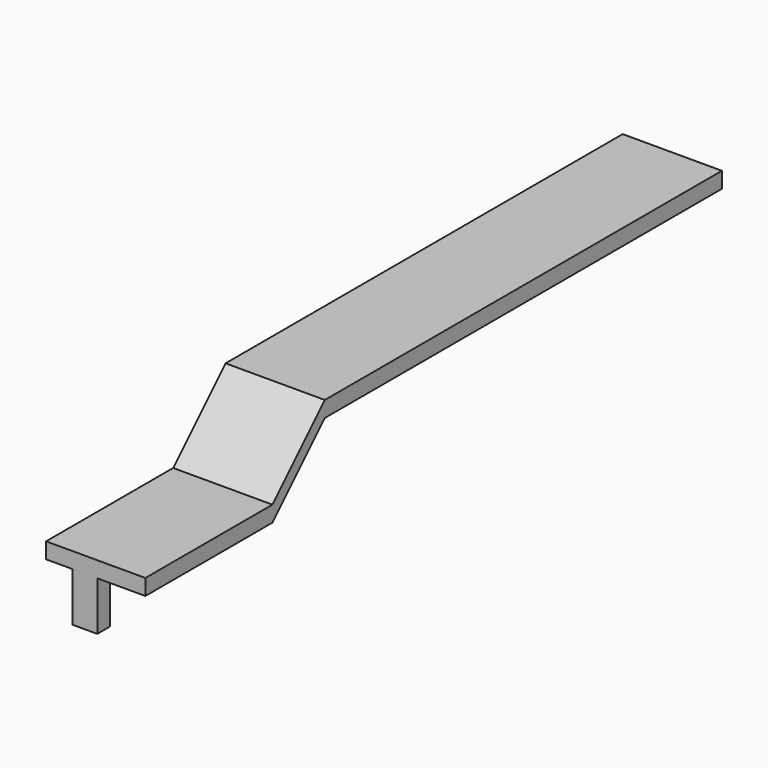
from build123d import *

# Parameters (mm, degrees)
CYLINDER003_R     = 5.8928
CYLINDER003_DEPTH = 2.032
SKETCH003_W       = 19.05
SKETCH003_H       = 30.48
PAD_DEPTH         = 3.048
PAD001_DEPTH      = 19.05
SKETCH005_W       = 4.7498
SKETCH005_H       = 3.048
PAD002_DEPTH      = 9.398


with BuildPart() as part:
    # Cylinder003 → Cylinder003 (new body)
    with BuildSketch(Plane(origin=(0, -38.1, 34.923527), x_dir=(1, 0, 0), z_dir=(0, 0, 1))):
        Circle(CYLINDER003_R)
    extrude(amount=CYLINDER003_DEPTH)

    # Sketch003 → Pad (new body)
    with BuildSketch(Plane(origin=(0, -38.1, 36.955527), x_dir=(1, 0, 0), z_dir=(0, 0, 1))):
        Rectangle(SKETCH003_W, SKETCH003_H)
    extrude(amount=PAD_DEPTH)

    # Sketch004 → Pad001 (new body)
    with BuildSketch(Plane(origin=(-9.525, -38.1, 34.923527), x_dir=(0, -1, 0), z_dir=(-1, 0, 0))):
        Polygon((-15.24, 5.08), (-27.812359, 17.652359), (-123.062359, 17.652359), (-123.062359, 14.604359), (-27.812359, 14.604359), (-15.24, 2.032), align=None)
    extrude(amount=-PAD001_DEPTH)

    # Sketch005 → Pad002 (new body)
    with BuildSketch(Plane(origin=(0, -38.1, 36.955527), x_dir=(1, 0, 0), z_dir=(0, 0, -1))):
        with Locations((-2.0701, 13.716)):
            Rectangle(SKETCH005_W, SKETCH005_H)
    extrude(amount=PAD002_DEPTH)


solid = part.part
